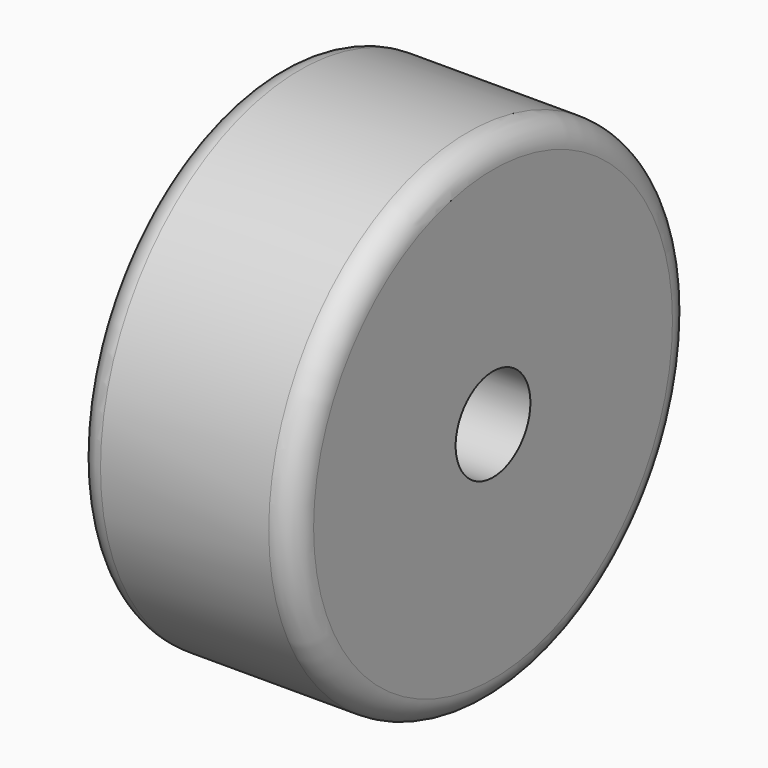
from build123d import *

# Parameters (mm, degrees)
F0_R     = 50.8
F0_R_2   = 9.525
F1_DEPTH = 44.45
F2_R     = 5.08
F3_R     = 5.08


with BuildPart() as f1:
    # F0 (on Right) → F1 (new body)
    with BuildSketch(Plane.YZ):
        Circle(F0_R)
        Circle(F0_R_2, mode=Mode.SUBTRACT)
    extrude(amount=F1_DEPTH)

    # F2
    f2_edges = [f1.edges().sort_by_distance(p)[0] for p in [
        (44.45, -50.8, 0),
    ]]
    fillet(f2_edges, radius=F2_R)

    # F3
    f3_edges = [f1.edges().sort_by_distance(p)[0] for p in [
        (0, -50.8, 0),
    ]]
    fillet(f3_edges, radius=F3_R)


solid = f1.part
